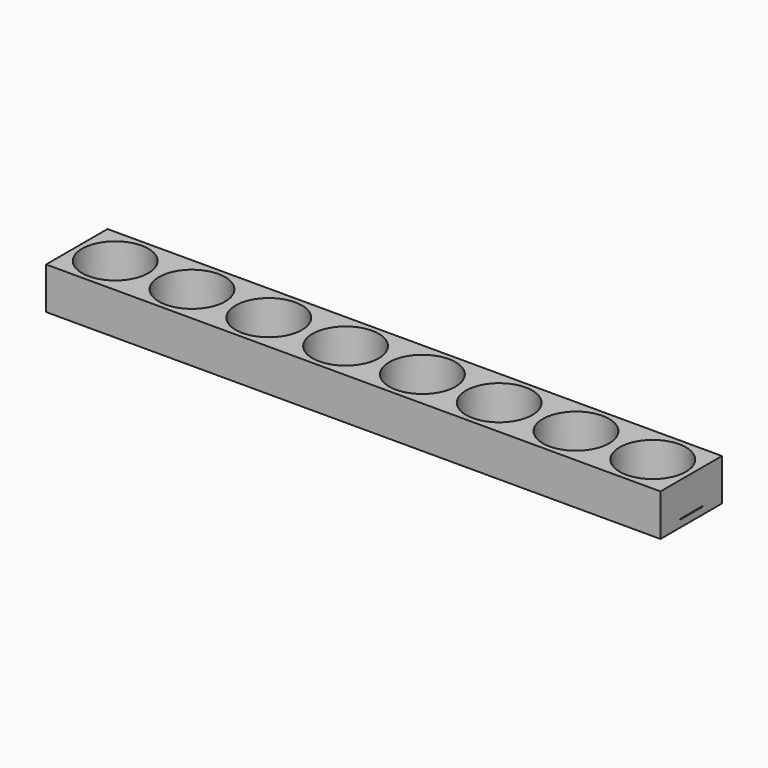
from build123d import *

# Parameters (mm, degrees)
F0_W     = 22
F0_H     = 22
F0_W_2   = 8
F0_H_2   = 8
F1_DEPTH = 2
F2_W     = 176
F2_H     = 22
F2_R     = 9.5
F3_DEPTH = 10
F4_W     = 8
F4_H     = 0.2
F5_DEPTH = 176.001


with BuildPart() as f1:
    # F0 (on Top) → F1 (new body)
    with BuildSketch(Plane.XY):
        Rectangle(F0_W, F0_H)
        Rectangle(F0_W_2, F0_H_2, mode=Mode.SUBTRACT)
        with Locations((22, 0)):
            Rectangle(F0_W, F0_H)
        with Locations((22, 0)):
            Rectangle(F0_W_2, F0_H_2, mode=Mode.SUBTRACT)
        with Locations((44, 0)):
            Rectangle(F0_W, F0_H)
        with Locations((44, 0)):
            Rectangle(F0_W_2, F0_H_2, mode=Mode.SUBTRACT)
        with Locations((66, 0)):
            Rectangle(F0_W, F0_H)
        with Locations((66, 0)):
            Rectangle(F0_W_2, F0_H_2, mode=Mode.SUBTRACT)
        with Locations((88, 0)):
            Rectangle(F0_W, F0_H)
        with Locations((88, 0)):
            Rectangle(F0_W_2, F0_H_2, mode=Mode.SUBTRACT)
        with Locations((110, 0)):
            Rectangle(F0_W, F0_H)
        with Locations((110, 0)):
            Rectangle(F0_W_2, F0_H_2, mode=Mode.SUBTRACT)
        with Locations((132, 0)):
            Rectangle(F0_W, F0_H)
        with Locations((132, 0)):
            Rectangle(F0_W_2, F0_H_2, mode=Mode.SUBTRACT)
        with Locations((154, 0)):
            Rectangle(F0_W, F0_H)
        with Locations((154, 0)):
            Rectangle(F0_W_2, F0_H_2, mode=Mode.SUBTRACT)
    extrude(amount=F1_DEPTH)

    # F2 (on face) → F3 (join)
    with BuildSketch(Plane.XY.offset(2)):
        with Locations((77, 0)):
            Rectangle(F2_W, F2_H)
        Circle(F2_R, mode=Mode.SUBTRACT)
        with Locations((22, 0)):
            Circle(F2_R, mode=Mode.SUBTRACT)
        with Locations((44, 0)):
            Circle(F2_R, mode=Mode.SUBTRACT)
        with Locations((66, 0)):
            Circle(F2_R, mode=Mode.SUBTRACT)
        with Locations((88, 0)):
            Circle(F2_R, mode=Mode.SUBTRACT)
        with Locations((110, 0)):
            Circle(F2_R, mode=Mode.SUBTRACT)
        with Locations((132, 0)):
            Circle(F2_R, mode=Mode.SUBTRACT)
        with Locations((154, 0)):
            Circle(F2_R, mode=Mode.SUBTRACT)
    extrude(amount=F3_DEPTH)

    # F4 (on face) → F5 (cut, through all)
    with BuildSketch(Plane.YZ.offset(165)):
        with Locations((0, 2.1)):
            Rectangle(F4_W, F4_H)
    extrude(amount=-F5_DEPTH, mode=Mode.SUBTRACT)


solid = f1.part
